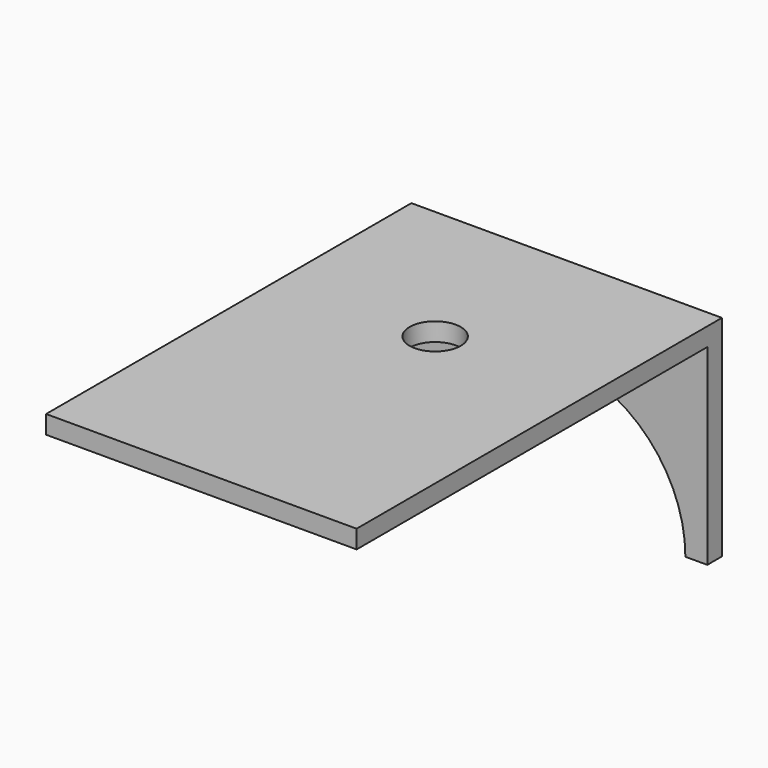
from build123d import *

# Parameters (mm, degrees)
F1_DEPTH = 5
F2_W     = 85
F2_H     = 125
F2_R     = 7
F3_DEPTH = 5


with BuildPart() as f1:
    # F0 (on Front) → F1 (new body)
    with BuildSketch(Plane.XZ):
        with BuildLine():
            ThreePointArc((-36.5, 0), (0, 36.5), (36.5, 0))
            Line((36.5, 0), (42.5, 0))
            Line((42.5, 0), (42.5, 57.5))
            Line((42.5, 57.5), (-42.5, 57.5))
            Line((-42.5, 57.5), (-42.5, 0))
            Line((-42.5, 0), (-36.5, 0))
        make_face()
    extrude(amount=F1_DEPTH)

    # F2 (on face) → F3 (join)
    with BuildSketch(Plane.XY.offset(57.5)):
        with Locations((0, -62.5)):
            Rectangle(F2_W, F2_H)
        with Locations((0, -45)):
            Circle(F2_R, mode=Mode.SUBTRACT)
    extrude(amount=-F3_DEPTH)


solid = f1.part
